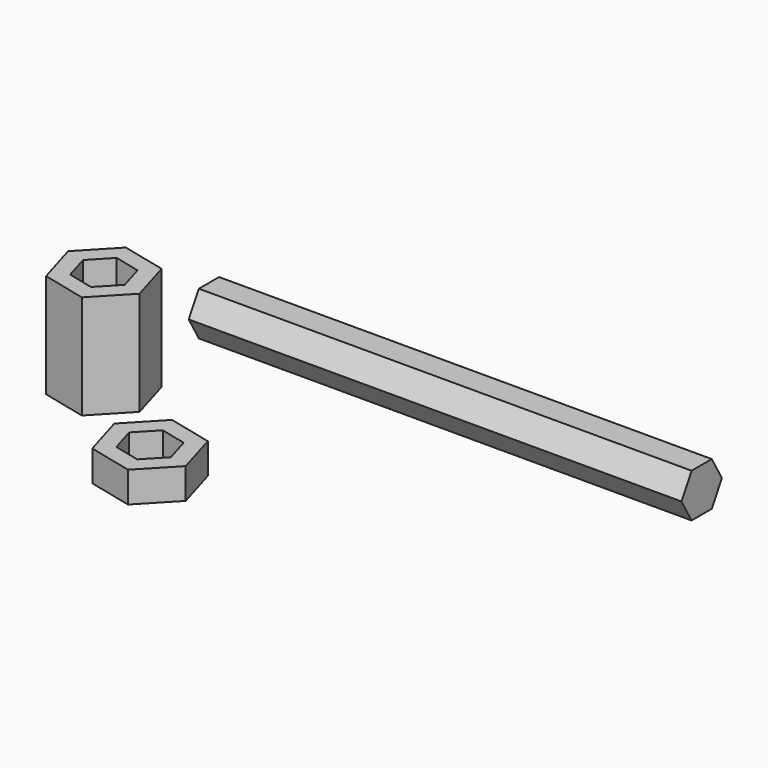
from build123d import *

# Parameters (mm, degrees)
F1_DEPTH = 45
F3_DEPTH = 2.8
F5_DEPTH = 9.5


with BuildPart() as f1:
    # F0 (on Right) → F1 (new body)
    with BuildSketch(Plane.YZ):
        Polygon((13.074732, 0), (14.229433, 2), (13.074732, 4), (10.765331, 4), (9.610631, 2), (10.765331, 0), align=None)
    extrude(amount=F1_DEPTH)


with BuildPart() as f3:
    # F2 (on Top) → F3 (new body)
    with BuildSketch(Plane.XY):
        Polygon((12.079606, -12.422669), (14.944613, -9.410738), (13.768708, -5.423603), (9.727794, -4.448399), (6.862787, -7.460331), (8.038693, -11.447466), align=None)
        Polygon((12.574955, -6.678574), (13.2609, -9.004403), (11.589645, -10.761363), (9.232446, -10.192495), (8.546501, -7.866666), (10.217755, -6.109706), align=None, mode=Mode.SUBTRACT)
    extrude(amount=F3_DEPTH)


with BuildPart() as f5:
    # F4 (on Top) → F5 (new body)
    with BuildSketch(Plane.XY):
        Polygon((0.917782, -3.741603), (3.782789, -0.729671), (2.606883, 3.257464), (-1.43403, 4.232667), (-4.299037, 1.220736), (-3.123131, -2.766399), align=None)
        Polygon((1.41313, 2.002493), (2.099075, -0.323336), (0.427821, -2.080296), (-1.929378, -1.511428), (-2.615323, 0.814401), (-0.944069, 2.571361), align=None, mode=Mode.SUBTRACT)
    extrude(amount=F5_DEPTH)


solid = Compound([f1.part, f3.part, f5.part])
